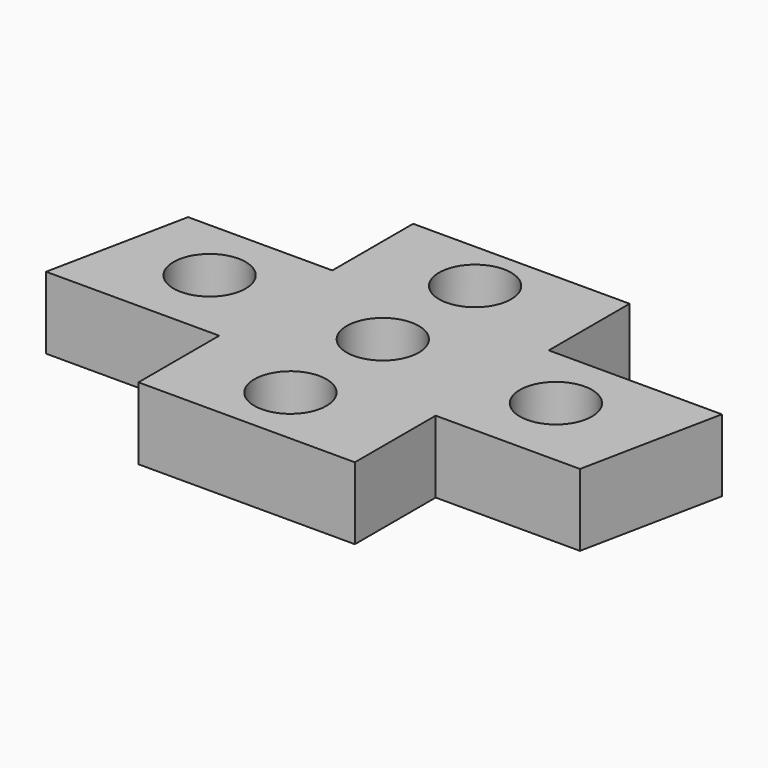
from build123d import *

# Parameters (mm, degrees)
F0_R     = 6.35
F1_DEPTH = 12.7


with BuildPart() as f1:
    # F0 (on Top) → F1 (new body)
    with BuildSketch(Plane.XY):
        Polygon((-7.92159, -12.359408), (-7.92159, -30.139408), (-33.32159, -30.139408), (-38.40159, -55.026224), (-7.92159, -55.026224), (-7.92159, -72.806224), (30.17841, -72.806224), (30.17841, -55.026224), (55.57841, -55.026224), (60.65841, -30.139408), (30.17841, -30.139408), (30.17841, -12.359408), align=None)
        with Locations((10.291242, -62.124663)):
            Circle(F0_R, mode=Mode.SUBTRACT)
        with Locations((-20.188758, -41.804663)):
            Circle(F0_R, mode=Mode.SUBTRACT)
        with Locations((10.291242, -41.804663)):
            Circle(F0_R, mode=Mode.SUBTRACT)
        with Locations((10.291242, -21.484663)):
            Circle(F0_R, mode=Mode.SUBTRACT)
        with Locations((40.771242, -41.804663)):
            Circle(F0_R, mode=Mode.SUBTRACT)
    extrude(amount=F1_DEPTH)


solid = f1.part
